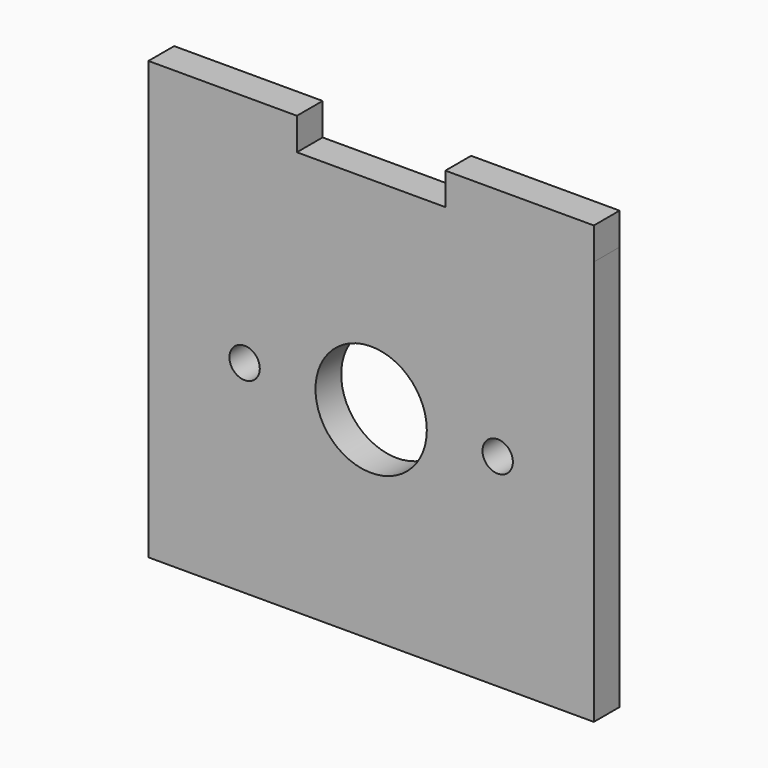
from build123d import *

# Parameters (mm, degrees)
F0_W     = 44
F0_H     = 40
F0_R     = 1.5
F0_R_2   = 5.5
F1_DEPTH = 3.175
F2_W     = 14.666667
F2_H     = 3.175
F3_DEPTH = 3.175


with BuildPart() as f1:
    # F0 (on Front) → F1 (new body)
    with BuildSketch(Plane.XZ):
        Rectangle(F0_W, F0_H)
        with Locations((-12.5, 0)):
            Circle(F0_R, mode=Mode.SUBTRACT)
        Circle(F0_R_2, mode=Mode.SUBTRACT)
        with Locations((12.5, 0)):
            Circle(F0_R, mode=Mode.SUBTRACT)
    extrude(amount=F1_DEPTH)

    # F2 (on face) → F3 (join)
    with BuildSketch(Plane.XY.offset(20)):
        with Locations((-14.666666, -1.5875)):
            Rectangle(F2_W, F2_H)
        with Locations((14.666666, -1.5875)):
            Rectangle(F2_W, F2_H)
    extrude(amount=F3_DEPTH)


solid = f1.part
